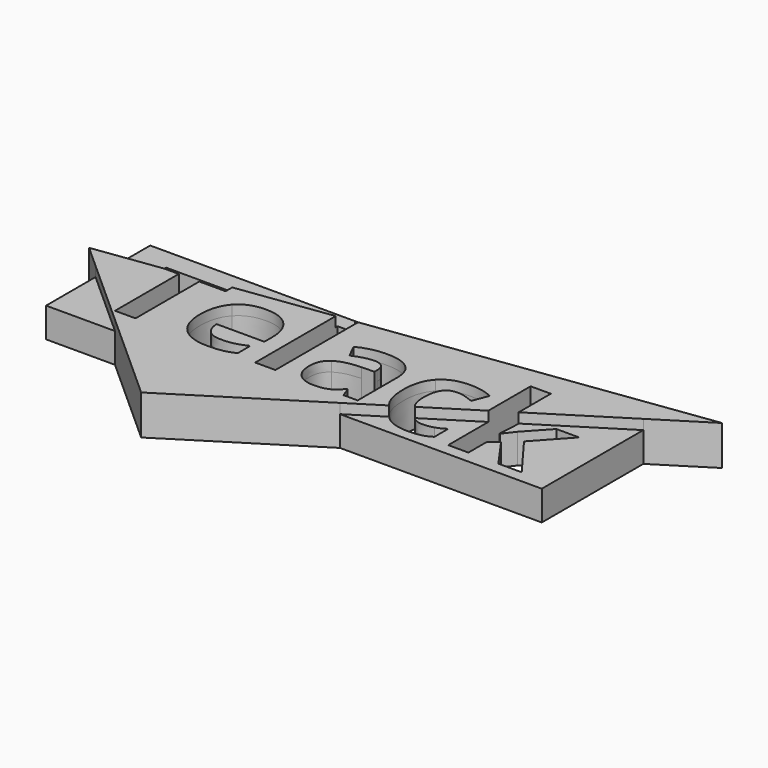
from build123d import *

# Parameters (mm, degrees)
F1_DEPTH = 3
F2_DEPTH = 4


with BuildPart() as f1:
    # F0 (on Top) → F1 (new body)
    with BuildSketch(Plane.XY):
        with BuildLine():
            Line((23.9895706374, 30.3747781751), (7.1921940033, 30.3747781751))
            Line((7.1921940033, 30.3747781751), (-4.1256689563, 28.8409133061))
            Line((-4.1256689563, 28.8409133061), (-3.8431012891, 28.8409133061))
            Line((-3.8431012891, 28.8409133061), (-3.8431012891, 18.4491770983))
            Line((-3.8431012891, 18.4491770983), (-5.8795653249, 18.4491770983))
            Line((-5.8795653249, 18.4491770983), (-5.8795653249, 28.60321472))
            Line((-5.8795653249, 28.60321472), (-15.3011497255, 27.326344928))
            Line((-15.3011497255, 27.326344928), (-15.3011497255, 26.490325227))
            Line((-15.3011497255, 26.490325227), (-17.9509035601, 26.490325227))
            Line((-17.9509035601, 26.490325227), (-17.9509035601, 18.4491770983))
            Line((-17.9509035601, 18.4491770983), (-20.021557968, 18.4491770983))
            Line((-20.021557968, 18.4491770983), (-20.021557968, 26.490325227))
            Line((-20.021557968, 26.490325227), (-21.4698524574, 26.490325227))
            Line((-21.4698524574, 26.490325227), (-26.0104293626, 25.8749589318))
            Line((-26.0104293626, 25.8749589318), (-26.0104293626, 23.4812970793))
            Line((-26.0104293626, 23.4812970793), (-19.0587727783, 17.2456760516))
            Line((-19.0587727783, 17.2456760516), (3.6291164455, 17.2456760516))
            Line((3.6291164455, 17.2456760516), (6.9293007942, 19.3209661204))
            add(Edge.make_bspline(
                [(6.9293007942, 19.3209661204), (6.1020231836, 20.2771352074), (6.1020231836, 22.1417372807)],
                knots=[0.5128006135, 0.5128006135, 0.5128006135, 1, 1, 1], degree=2))
            add(Edge.make_bspline(
                [(6.1020231836, 22.1417372807), (6.1020231836, 24.0457136248), (7.0497375592, 25.050055804)],
                knots=[0, 0, 0, 1, 1, 1], degree=2))
            add(Edge.make_bspline(
                [(7.0497375592, 25.050055804), (7.9974519347, 26.0543979833), (9.7668036887, 26.0543979833)],
                knots=[0, 0, 0, 1, 1, 1], degree=2))
            add(Edge.make_bspline(
                [(9.7668036887, 26.0543979833), (11.0617640305, 26.0543979833), (12.0917489888, 25.5479530971)],
                knots=[0, 0, 0, 1, 1, 1], degree=2))
            Line((12.0917489888, 25.5479530971), (11.4891436812, 23.9709221859))
            add(Edge.make_bspline(
                [(11.4891436812, 23.9709221859), (11.0083415742, 24.165379927), (10.5948517621, 24.2893200257)],
                knots=[0, 0, 0, 1, 1, 1], degree=2))
            add(Edge.make_bspline(
                [(10.5948517621, 24.2893200257), (10.18136195, 24.4132601244), (9.7668036887, 24.4132601244)],
                knots=[0, 0, 0, 1, 1, 1], degree=2))
            add(Edge.make_bspline(
                [(9.7668036887, 24.4132601244), (8.176951388, 24.4132601244), (8.176951388, 22.1545586702)],
                knots=[0, 0, 0, 1, 1, 1], degree=2))
            add(Edge.make_bspline(
                [(8.176951388, 22.1545586702), (8.176951388, 20.9500179034), (8.6577734278, 20.4078999737)],
                knots=[0, 0, 0, 0.5499380805, 0.5499380805, 0.5499380805], degree=2))
            Line((8.6577734278, 20.4078999737), (13.5875777664, 23.507961335))
            Line((13.5875777664, 23.507961335), (13.5875777664, 28.8409133061))
            Line((13.5875777664, 28.8409133061), (15.6240418022, 28.8409133061))
            Line((15.6240418022, 28.8409133061), (15.6240418022, 24.7885727016))
            Line((15.6240418022, 24.7885727016), (23.9895706374, 30.0491572863))
            Line((23.9895706374, 30.0491572863), (23.9895706374, 30.3747781751))
        make_face()
        with BuildLine():
            add(Edge.make_bspline(
                [(-9.097734095, 18.4449033018), (-9.7046131991, 18.3145525083), (-10.5807414831, 18.3145525083)],
                knots=[0, 0, 0, 1, 1, 1], degree=2))
            add(Edge.make_bspline(
                [(-10.5807414831, 18.3145525083), (-12.382146711, 18.3145525083), (-13.3971733815, 19.3103470945)],
                knots=[0, 0, 0, 1, 1, 1], degree=2))
            add(Edge.make_bspline(
                [(-13.3971733815, 19.3103470945), (-14.412200052, 20.3061416808), (-14.412200052, 22.1289158912)],
                knots=[0, 0, 0, 1, 1, 1], degree=2))
            add(Edge.make_bspline(
                [(-14.412200052, 22.1289158912), (-14.412200052, 24.005112558), (-13.4741017186, 25.0297552706)],
                knots=[0, 0, 0, 1, 1, 1], degree=2))
            add(Edge.make_bspline(
                [(-13.4741017186, 25.0297552706), (-12.5360033852, 26.0543979833), (-10.8799072386, 26.0543979833)],
                knots=[0, 0, 0, 1, 1, 1], degree=2))
            add(Edge.make_bspline(
                [(-10.8799072386, 26.0543979833), (-9.2986025309, 26.0543979833), (-8.4171320012, 25.1536953693)],
                knots=[0, 0, 0, 1, 1, 1], degree=2))
            add(Edge.make_bspline(
                [(-8.4171320012, 25.1536953693), (-7.5356614716, 24.2529927554), (-7.5356614716, 22.6631404546)],
                knots=[0, 0, 0, 1, 1, 1], degree=2))
            Line((-7.5356614716, 22.6631404546), (-7.5356614716, 21.6737565632))
            Line((-7.5356614716, 21.6737565632), (-12.3500932372, 21.6737565632))
            add(Edge.make_bspline(
                [(-12.3500932372, 21.6737565632), (-12.3159028651, 20.8061758721), (-11.835100758, 20.3189630703)],
                knots=[0, 0, 0, 1, 1, 1], degree=2))
            add(Edge.make_bspline(
                [(-11.835100758, 20.3189630703), (-11.3542986509, 19.8317502685), (-10.4867179599, 19.8317502685)],
                knots=[0, 0, 0, 1, 1, 1], degree=2))
            add(Edge.make_bspline(
                [(-10.4867179599, 19.8317502685), (-9.8114581118, 19.8317502685), (-9.2109897025, 19.9717171041)],
                knots=[0, 0, 0, 1, 1, 1], degree=2))
            add(Edge.make_bspline(
                [(-9.2109897025, 19.9717171041), (-8.6105212932, 20.1116839397), (-7.9566304275, 20.4193972882)],
                knots=[0, 0, 0, 1, 1, 1], degree=2))
            Line((-7.9566304275, 20.4193972882), (-7.9566304275, 18.842366377))
            add(Edge.make_bspline(
                [(-7.9566304275, 18.842366377), (-8.490854991, 18.5752540953), (-9.097734095, 18.4449033018)],
                knots=[0, 0, 0, 1, 1, 1], degree=2))
        make_face(mode=Mode.SUBTRACT)
        with BuildLine():
            Line((4.4566115283, 18.4491770983), (3.0355741896, 18.4491770983))
            Line((3.0355741896, 18.4491770983), (2.6402480126, 19.4642037688))
            Line((2.6402480126, 19.4642037688), (2.5868255563, 19.4642037688))
            add(Edge.make_bspline(
                [(2.5868255563, 19.4642037688), (2.0739699754, 18.8167235979), (1.5290609207, 18.5656380531)],
                knots=[0, 0, 0, 1, 1, 1], degree=2))
            add(Edge.make_bspline(
                [(1.5290609207, 18.5656380531), (0.984151866, 18.3145525083), (0.1101604802, 18.3145525083)],
                knots=[0, 0, 0, 1, 1, 1], degree=2))
            add(Edge.make_bspline(
                [(0.1101604802, 18.3145525083), (-0.9646993414, 18.3145525083), (-1.5822629367, 18.9299792054)],
                knots=[0, 0, 0, 1, 1, 1], degree=2))
            add(Edge.make_bspline(
                [(-1.5822629367, 18.9299792054), (-2.199826532, 19.5454059025), (-2.199826532, 20.6800988752)],
                knots=[0, 0, 0, 1, 1, 1], degree=2))
            add(Edge.make_bspline(
                [(-2.199826532, 20.6800988752), (-2.199826532, 21.8682143042), (-1.3685731113, 22.4323554432)],
                knots=[0, 0, 0, 1, 1, 1], degree=2))
            add(Edge.make_bspline(
                [(-1.3685731113, 22.4323554432), (-0.5373196907, 22.9964965822), (1.1380085403, 23.0563297333)],
                knots=[0, 0, 0, 1, 1, 1], degree=2))
            Line((1.1380085403, 23.0563297333), (2.4351057803, 23.0969308001))
            Line((2.4351057803, 23.0969308001), (2.4351057803, 23.4238762329))
            add(Edge.make_bspline(
                [(2.4351057803, 23.4238762329), (2.4351057803, 24.5585692057), (1.2726331302, 24.5585692057)],
                knots=[0, 0, 0, 1, 1, 1], degree=2))
            add(Edge.make_bspline(
                [(1.2726331302, 24.5585692057), (0.3772727619, 24.5585692057), (-0.8322116497, 24.0179339475)],
                knots=[0, 0, 0, 1, 1, 1], degree=2))
            Line((-0.8322116497, 24.0179339475), (-1.5053345996, 25.3940964229))
            add(Edge.make_bspline(
                [(-1.5053345996, 25.3940964229), (-0.2167849526, 26.069356271), (1.3516983656, 26.069356271)],
                knots=[0, 0, 0, 1, 1, 1], degree=2))
            add(Edge.make_bspline(
                [(1.3516983656, 26.069356271), (2.853937838, 26.069356271), (3.6552746831, 25.4143969563)],
                knots=[0, 0, 0, 1, 1, 1], degree=2))
            add(Edge.make_bspline(
                [(3.6552746831, 25.4143969563), (4.4566115283, 24.7594376415), (4.4566115283, 23.4238762329)],
                knots=[0, 0, 0, 1, 1, 1], degree=2))
            Line((4.4566115283, 23.4238762329), (4.4566115283, 18.4491770983))
        make_face(mode=Mode.SUBTRACT)
        Polygon((7.1921940033, 30.3747781751), (-26.0104293626, 30.3747781751), (-26.0104293626, 25.8749589318), (-21.4698524574, 26.490325227), (-22.6734487008, 26.490325227), (-22.6734487008, 28.2126652195), (-15.3011497255, 28.2126652195), (-15.3011497255, 27.326344928), (-5.8795653249, 28.60321472), (-5.8795653249, 28.8409133061), (-4.1256689563, 28.8409133061), align=None)
        with BuildLine():
            Line((23.9895706374, 17.2456760516), (23.9895706374, 30.0491572863))
            Line((23.9895706374, 30.0491572863), (15.6240418022, 24.7885727016))
            Line((15.6240418022, 24.7885727016), (15.6240418022, 24.2059809938))
            Line((15.6240418022, 24.2059809938), (15.5171968895, 22.5092837804))
            Line((15.5171968895, 22.5092837804), (15.5449765668, 22.5092837804))
            Line((15.5449765668, 22.5092837804), (16.4317893421, 23.6439767531))
            Line((16.4317893421, 23.6439767531), (18.5216758342, 25.9154995968))
            Line((18.5216758342, 25.9154995968), (20.8188414569, 25.9154995968))
            Line((20.8188414569, 25.9154995968), (17.854963579, 22.6759618441))
            Line((17.854963579, 22.6759618441), (21.0004778085, 18.4491770983))
            Line((21.0004778085, 18.4491770983), (18.6498897294, 18.4491770983))
            Line((18.6498897294, 18.4491770983), (16.5001700862, 21.4750250256))
            Line((16.5001700862, 21.4750250256), (15.6240418022, 20.7741223983))
            Line((15.6240418022, 20.7741223983), (15.6240418022, 18.4491770983))
            Line((15.6240418022, 18.4491770983), (13.5875777664, 18.4491770983))
            Line((13.5875777664, 18.4491770983), (13.5875777664, 23.507961335))
            Line((13.5875777664, 23.507961335), (8.6577734278, 20.4078999737))
            add(Edge.make_bspline(
                [(8.6577734278, 20.4078999737), (9.0512717105, 19.9642379602), (9.7668036887, 19.9642379602)],
                knots=[0.5499380805, 0.5499380805, 0.5499380805, 1, 1, 1], degree=2))
            add(Edge.make_bspline(
                [(9.7668036887, 19.9642379602), (10.3544507085, 19.9642379602), (10.855553349, 20.1212999818)],
                knots=[0, 0, 0, 1, 1, 1], degree=2))
            add(Edge.make_bspline(
                [(10.855553349, 20.1212999818), (11.3566559895, 20.2783620035), (11.8566901809, 20.6138550293)],
                knots=[0, 0, 0, 1, 1, 1], degree=2))
            Line((11.8566901809, 20.6138550293), (11.8566901809, 18.8701460543))
            add(Edge.make_bspline(
                [(11.8566901809, 18.8701460543), (11.3630666843, 18.556022011), (10.8587586964, 18.4352872597)],
                knots=[0, 0, 0, 1, 1, 1], degree=2))
            add(Edge.make_bspline(
                [(10.8587586964, 18.4352872597), (10.3544507085, 18.3145525083), (9.5873042354, 18.3145525083)],
                knots=[0, 0, 0, 1, 1, 1], degree=2))
            add(Edge.make_bspline(
                [(9.5873042354, 18.3145525083), (7.800049974, 18.3145525083), (6.9293007942, 19.3209661204)],
                knots=[0, 0, 0, 0.5128006135, 0.5128006135, 0.5128006135], degree=2))
            Line((6.9293007942, 19.3209661204), (3.6291164455, 17.2456760516))
            Line((3.6291164455, 17.2456760516), (23.9895706374, 17.2456760516))
        make_face()
        Polygon((-19.0587727783, 17.2456760516), (-26.0104293626, 23.4812970793), (-26.0104293626, 17.2456760516), align=None)
    extrude(amount=F1_DEPTH)

    # F0 (on Top) → F2 (join)
    with BuildSketch(Plane.XY):
        with BuildLine():
            Line((23.9895706374, 30.3747781751), (7.1921940033, 30.3747781751))
            Line((7.1921940033, 30.3747781751), (-4.1256689563, 28.8409133061))
            Line((-4.1256689563, 28.8409133061), (-3.8431012891, 28.8409133061))
            Line((-3.8431012891, 28.8409133061), (-3.8431012891, 18.4491770983))
            Line((-3.8431012891, 18.4491770983), (-5.8795653249, 18.4491770983))
            Line((-5.8795653249, 18.4491770983), (-5.8795653249, 28.60321472))
            Line((-5.8795653249, 28.60321472), (-15.3011497255, 27.326344928))
            Line((-15.3011497255, 27.326344928), (-15.3011497255, 26.490325227))
            Line((-15.3011497255, 26.490325227), (-17.9509035601, 26.490325227))
            Line((-17.9509035601, 26.490325227), (-17.9509035601, 18.4491770983))
            Line((-17.9509035601, 18.4491770983), (-20.021557968, 18.4491770983))
            Line((-20.021557968, 18.4491770983), (-20.021557968, 26.490325227))
            Line((-20.021557968, 26.490325227), (-21.4698524574, 26.490325227))
            Line((-21.4698524574, 26.490325227), (-26.0104293626, 25.8749589318))
            Line((-26.0104293626, 25.8749589318), (-26.0104293626, 23.4812970793))
            Line((-26.0104293626, 23.4812970793), (-19.0587727783, 17.2456760516))
            Line((-19.0587727783, 17.2456760516), (3.6291164455, 17.2456760516))
            Line((3.6291164455, 17.2456760516), (6.9293007942, 19.3209661204))
            add(Edge.make_bspline(
                [(6.9293007942, 19.3209661204), (6.1020231836, 20.2771352074), (6.1020231836, 22.1417372807)],
                knots=[0.5128006135, 0.5128006135, 0.5128006135, 1, 1, 1], degree=2))
            add(Edge.make_bspline(
                [(6.1020231836, 22.1417372807), (6.1020231836, 24.0457136248), (7.0497375592, 25.050055804)],
                knots=[0, 0, 0, 1, 1, 1], degree=2))
            add(Edge.make_bspline(
                [(7.0497375592, 25.050055804), (7.9974519347, 26.0543979833), (9.7668036887, 26.0543979833)],
                knots=[0, 0, 0, 1, 1, 1], degree=2))
            add(Edge.make_bspline(
                [(9.7668036887, 26.0543979833), (11.0617640305, 26.0543979833), (12.0917489888, 25.5479530971)],
                knots=[0, 0, 0, 1, 1, 1], degree=2))
            Line((12.0917489888, 25.5479530971), (11.4891436812, 23.9709221859))
            add(Edge.make_bspline(
                [(11.4891436812, 23.9709221859), (11.0083415742, 24.165379927), (10.5948517621, 24.2893200257)],
                knots=[0, 0, 0, 1, 1, 1], degree=2))
            add(Edge.make_bspline(
                [(10.5948517621, 24.2893200257), (10.18136195, 24.4132601244), (9.7668036887, 24.4132601244)],
                knots=[0, 0, 0, 1, 1, 1], degree=2))
            add(Edge.make_bspline(
                [(9.7668036887, 24.4132601244), (8.176951388, 24.4132601244), (8.176951388, 22.1545586702)],
                knots=[0, 0, 0, 1, 1, 1], degree=2))
            add(Edge.make_bspline(
                [(8.176951388, 22.1545586702), (8.176951388, 20.9500179034), (8.6577734278, 20.4078999737)],
                knots=[0, 0, 0, 0.5499380805, 0.5499380805, 0.5499380805], degree=2))
            Line((8.6577734278, 20.4078999737), (13.5875777664, 23.507961335))
            Line((13.5875777664, 23.507961335), (13.5875777664, 28.8409133061))
            Line((13.5875777664, 28.8409133061), (15.6240418022, 28.8409133061))
            Line((15.6240418022, 28.8409133061), (15.6240418022, 24.7885727016))
            Line((15.6240418022, 24.7885727016), (23.9895706374, 30.0491572863))
            Line((23.9895706374, 30.0491572863), (23.9895706374, 30.3747781751))
        make_face()
        with BuildLine():
            add(Edge.make_bspline(
                [(-9.097734095, 18.4449033018), (-9.7046131991, 18.3145525083), (-10.5807414831, 18.3145525083)],
                knots=[0, 0, 0, 1, 1, 1], degree=2))
            add(Edge.make_bspline(
                [(-10.5807414831, 18.3145525083), (-12.382146711, 18.3145525083), (-13.3971733815, 19.3103470945)],
                knots=[0, 0, 0, 1, 1, 1], degree=2))
            add(Edge.make_bspline(
                [(-13.3971733815, 19.3103470945), (-14.412200052, 20.3061416808), (-14.412200052, 22.1289158912)],
                knots=[0, 0, 0, 1, 1, 1], degree=2))
            add(Edge.make_bspline(
                [(-14.412200052, 22.1289158912), (-14.412200052, 24.005112558), (-13.4741017186, 25.0297552706)],
                knots=[0, 0, 0, 1, 1, 1], degree=2))
            add(Edge.make_bspline(
                [(-13.4741017186, 25.0297552706), (-12.5360033852, 26.0543979833), (-10.8799072386, 26.0543979833)],
                knots=[0, 0, 0, 1, 1, 1], degree=2))
            add(Edge.make_bspline(
                [(-10.8799072386, 26.0543979833), (-9.2986025309, 26.0543979833), (-8.4171320012, 25.1536953693)],
                knots=[0, 0, 0, 1, 1, 1], degree=2))
            add(Edge.make_bspline(
                [(-8.4171320012, 25.1536953693), (-7.5356614716, 24.2529927554), (-7.5356614716, 22.6631404546)],
                knots=[0, 0, 0, 1, 1, 1], degree=2))
            Line((-7.5356614716, 22.6631404546), (-7.5356614716, 21.6737565632))
            Line((-7.5356614716, 21.6737565632), (-12.3500932372, 21.6737565632))
            add(Edge.make_bspline(
                [(-12.3500932372, 21.6737565632), (-12.3159028651, 20.8061758721), (-11.835100758, 20.3189630703)],
                knots=[0, 0, 0, 1, 1, 1], degree=2))
            add(Edge.make_bspline(
                [(-11.835100758, 20.3189630703), (-11.3542986509, 19.8317502685), (-10.4867179599, 19.8317502685)],
                knots=[0, 0, 0, 1, 1, 1], degree=2))
            add(Edge.make_bspline(
                [(-10.4867179599, 19.8317502685), (-9.8114581118, 19.8317502685), (-9.2109897025, 19.9717171041)],
                knots=[0, 0, 0, 1, 1, 1], degree=2))
            add(Edge.make_bspline(
                [(-9.2109897025, 19.9717171041), (-8.6105212932, 20.1116839397), (-7.9566304275, 20.4193972882)],
                knots=[0, 0, 0, 1, 1, 1], degree=2))
            Line((-7.9566304275, 20.4193972882), (-7.9566304275, 18.842366377))
            add(Edge.make_bspline(
                [(-7.9566304275, 18.842366377), (-8.490854991, 18.5752540953), (-9.097734095, 18.4449033018)],
                knots=[0, 0, 0, 1, 1, 1], degree=2))
        make_face(mode=Mode.SUBTRACT)
        with BuildLine():
            Line((4.4566115283, 18.4491770983), (3.0355741896, 18.4491770983))
            Line((3.0355741896, 18.4491770983), (2.6402480126, 19.4642037688))
            Line((2.6402480126, 19.4642037688), (2.5868255563, 19.4642037688))
            add(Edge.make_bspline(
                [(2.5868255563, 19.4642037688), (2.0739699754, 18.8167235979), (1.5290609207, 18.5656380531)],
                knots=[0, 0, 0, 1, 1, 1], degree=2))
            add(Edge.make_bspline(
                [(1.5290609207, 18.5656380531), (0.984151866, 18.3145525083), (0.1101604802, 18.3145525083)],
                knots=[0, 0, 0, 1, 1, 1], degree=2))
            add(Edge.make_bspline(
                [(0.1101604802, 18.3145525083), (-0.9646993414, 18.3145525083), (-1.5822629367, 18.9299792054)],
                knots=[0, 0, 0, 1, 1, 1], degree=2))
            add(Edge.make_bspline(
                [(-1.5822629367, 18.9299792054), (-2.199826532, 19.5454059025), (-2.199826532, 20.6800988752)],
                knots=[0, 0, 0, 1, 1, 1], degree=2))
            add(Edge.make_bspline(
                [(-2.199826532, 20.6800988752), (-2.199826532, 21.8682143042), (-1.3685731113, 22.4323554432)],
                knots=[0, 0, 0, 1, 1, 1], degree=2))
            add(Edge.make_bspline(
                [(-1.3685731113, 22.4323554432), (-0.5373196907, 22.9964965822), (1.1380085403, 23.0563297333)],
                knots=[0, 0, 0, 1, 1, 1], degree=2))
            Line((1.1380085403, 23.0563297333), (2.4351057803, 23.0969308001))
            Line((2.4351057803, 23.0969308001), (2.4351057803, 23.4238762329))
            add(Edge.make_bspline(
                [(2.4351057803, 23.4238762329), (2.4351057803, 24.5585692057), (1.2726331302, 24.5585692057)],
                knots=[0, 0, 0, 1, 1, 1], degree=2))
            add(Edge.make_bspline(
                [(1.2726331302, 24.5585692057), (0.3772727619, 24.5585692057), (-0.8322116497, 24.0179339475)],
                knots=[0, 0, 0, 1, 1, 1], degree=2))
            Line((-0.8322116497, 24.0179339475), (-1.5053345996, 25.3940964229))
            add(Edge.make_bspline(
                [(-1.5053345996, 25.3940964229), (-0.2167849526, 26.069356271), (1.3516983656, 26.069356271)],
                knots=[0, 0, 0, 1, 1, 1], degree=2))
            add(Edge.make_bspline(
                [(1.3516983656, 26.069356271), (2.853937838, 26.069356271), (3.6552746831, 25.4143969563)],
                knots=[0, 0, 0, 1, 1, 1], degree=2))
            add(Edge.make_bspline(
                [(3.6552746831, 25.4143969563), (4.4566115283, 24.7594376415), (4.4566115283, 23.4238762329)],
                knots=[0, 0, 0, 1, 1, 1], degree=2))
            Line((4.4566115283, 23.4238762329), (4.4566115283, 18.4491770983))
        make_face(mode=Mode.SUBTRACT)
        Polygon((-26.0104293626, 23.4812970793), (-26.0104293626, 25.8749589318), (-28.3286923365, 25.5607739884), align=None)
        Polygon((3.6291164455, 17.2456760516), (-19.0587727783, 17.2456760516), (-9.708460164, 8.8584657161), align=None)
        Polygon((29.2643024874, 33.3661230879), (7.1921940033, 30.3747781751), (23.9895706374, 30.3747781751), (23.9895706374, 30.0491572863), align=None)
    extrude(amount=F2_DEPTH)


solid = f1.part
